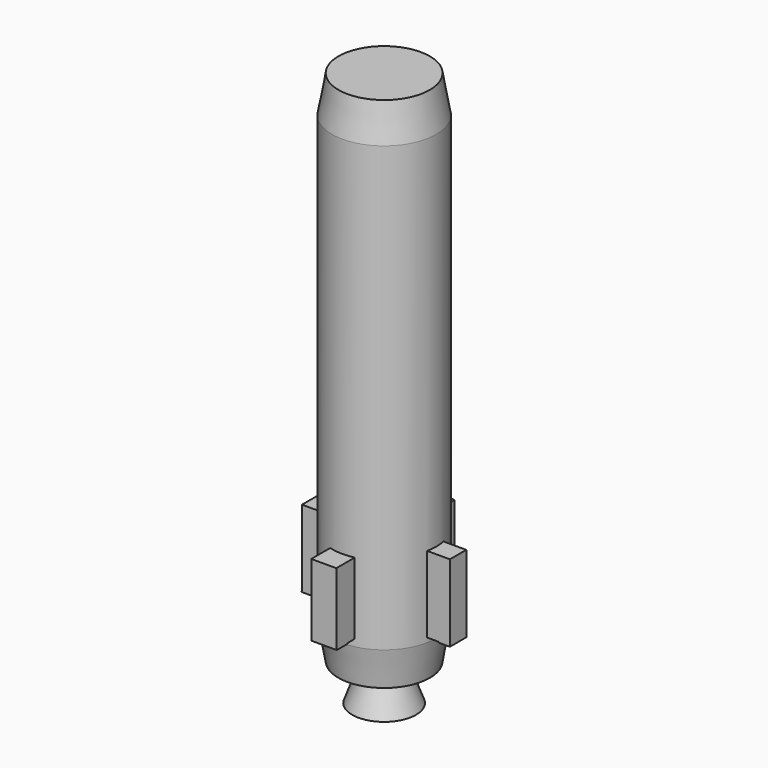
from build123d import *

# Parameters (mm, degrees)
F0_R           = 7.0559879231
F1_DEPTH       = 10
F1_DEPTH_BACK  = 50
F1_FACE_R      = 7.0559879231
F2_DEPTH       = 5
F2_TAPER       = 10
F1_FACE1_R     = 7.0559879231
F3_DEPTH       = 5
F3_TAPER       = 10
F4_R           = 2.5004277464
F5_DEPTH       = 5
F5_TAPER       = -20
F6_R           = 4.0384406511
F7_DEPTH       = 5
F7_TAPER       = 20
F8_W           = 2.7660944033
F8_H           = 10.3161744773
F9_DEPTH       = 10
F9_DEPTH_BACK  = 10
F10_W          = 1.5404122384
F10_H          = 2.7660944033
F10_W_2        = 1.5997784212
F11_DEPTH      = 0.1
F12_W          = 3.388955025
F12_H          = 9.6827298403
F13_DEPTH      = 10
F13_DEPTH_BACK = 10
F14_W          = 3.388955025
F14_H          = 1.5562066355
F14_H_2        = 1.8440047279
F15_DEPTH      = 0.1


with BuildPart() as f1:
    # F0 (on Top) → F1 (new body, two sides)
    with BuildSketch(Plane.XY) as f1_sk:
        Circle(F0_R)
    extrude(amount=F1_DEPTH)
    extrude(f1_sk.sketch, amount=-F1_DEPTH_BACK)

    # F1_face (on face) → F2 (join)
    with BuildSketch(Plane.XY.offset(10)):
        Circle(F1_FACE_R)
    extrude(amount=F2_DEPTH, taper=F2_TAPER)

    # F1_face1 (on face) → F3 (join)
    with BuildSketch(Plane(origin=(0, 0, -50), x_dir=(1, 0, 0), z_dir=(0, 0, -1))):
        Circle(F1_FACE1_R)
    extrude(amount=F3_DEPTH, taper=F3_TAPER)

    # F4 (on face) → F5 (join)
    with BuildSketch(Plane(origin=(0, 0, -55), x_dir=(1, 0, 0), z_dir=(0, 0, -1))):
        Circle(F4_R)
    extrude(amount=F5_DEPTH, taper=F5_TAPER)

    # F6 (on face) → F7 (cut)
    with BuildSketch(Plane(origin=(0, 0, -60), x_dir=(1, 0, 0), z_dir=(0, 0, -1))):
        Circle(F6_R)
    extrude(amount=-F7_DEPTH, taper=F7_TAPER, mode=Mode.SUBTRACT)

    # F8 (on Right) → F9 (join, two sides)
    with BuildSketch(Plane.YZ) as f9_sk:
        with Locations((0.0003051246, -44.2310776561)):
            Rectangle(F8_W, F8_H)
    extrude(amount=F9_DEPTH)
    extrude(f9_sk.sketch, amount=-F9_DEPTH_BACK)

    # F10 (on face) → F11 (join)
    with BuildSketch(Plane(origin=(0, 0, -49.3891648948), x_dir=(1, 0, 0), z_dir=(0, 0, -1))):
        with Locations((9.2297938808, -0.0003051246)):
            Rectangle(F10_W, F10_H)
        with Locations((-9.2380219139, -0.0003051246)):
            Rectangle(F10_W_2, F10_H)
    extrude(amount=F11_DEPTH)

    # F12 (on Front) → F13 (join, two sides)
    with BuildSketch(Plane.XZ) as f13_sk:
        with Locations((-0.162121607, -44.2238897085)):
            Rectangle(F12_W, F12_H)
    extrude(amount=F13_DEPTH)
    extrude(f13_sk.sketch, amount=-F13_DEPTH_BACK)

    # F14 (on face) → F15 (join)
    with BuildSketch(Plane(origin=(0, 0, -49.0652546287), x_dir=(1, 0, 0), z_dir=(0, 0, -1))):
        with Locations((-0.162121607, -9.2218966823)):
            Rectangle(F14_W, F14_H)
        with Locations((-0.162121607, 9.0010403655)):
            Rectangle(F14_W, F14_H_2)
    extrude(amount=F15_DEPTH)


solid = f1.part
